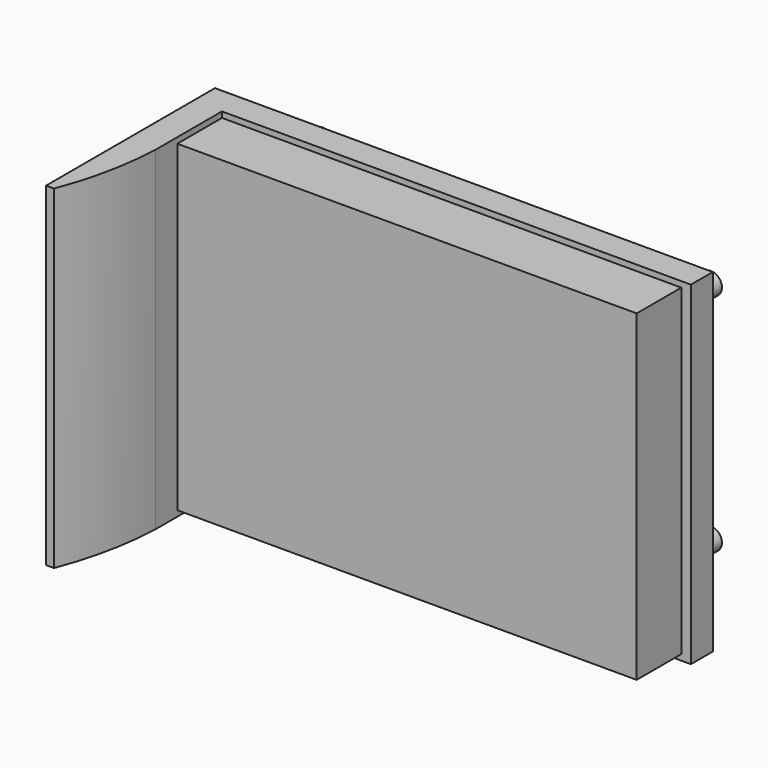
from build123d import *

# Parameters (mm, degrees)
F0_W     = 84
F0_H     = 59
F1_DEPTH = 10.2
F2_W     = 87.5051617622
F2_H     = 61.1030906439
F2_W_2   = 3.5238564014
F3_DEPTH = 5
F4_W     = 5.2764372826
F4_H     = 61.1030906439
F5_DEPTH = 33.6
F7_DEPTH = 69.2
F8_R     = 2
F9_DEPTH = 12.1


with BuildPart() as f1:
    # F0 (on Front) → F1 (new body)
    with BuildSketch(Plane.XZ):
        Rectangle(F0_W, F0_H)
    extrude(amount=F1_DEPTH)

    # F2 (on face) → F3 (join)
    with BuildSketch(Plane(origin=(0, 0, 0), x_dir=(-1, 0, 0), z_dir=(0, 1, 0))):
        Rectangle(F2_W, F2_H)
        with Locations((45.5145090818, 0)):
            Rectangle(F2_W_2, F2_H)
    extrude(amount=F3_DEPTH)

    # F4 (on face) → F5 (join)
    with BuildSketch(Plane.XZ):
        with Locations((-44.6382186413, 0)):
            Rectangle(F4_W, F4_H)
    extrude(amount=F5_DEPTH)

    # F6 (on face) → F7 (cut)
    with BuildSketch(Plane(origin=(0, 0, -30.5515453219), x_dir=(1, 0, 0), z_dir=(0, 0, -1))):
        with BuildLine():
            ThreePointArc((-45.8268001676, 33.6), (-43.1548823666, 24.5698804652), (-42, 15.2238411829))
            Line((-42, 15.2238411829), (-42, 33.6))
            Line((-42, 33.6), (-45.8268001676, 33.6))
        make_face()
    extrude(amount=-F7_DEPTH, mode=Mode.SUBTRACT)

    # F8 (on face) → F9 (join)
    with BuildSketch(Plane(origin=(0, 5, 0), x_dir=(-1, 0, 0), z_dir=(0, 1, 0))):
        with Locations((-33.7525808811, 20.5515453219)):
            Circle(F8_R)
        with Locations((37.2764372826, 20.5515453219)):
            Circle(F8_R)
        with Locations((37.2764372826, -20.5515453219)):
            Circle(F8_R)
        with Locations((-33.7525808811, -20.5515453219)):
            Circle(F8_R)
    extrude(amount=F9_DEPTH)


solid = f1.part
